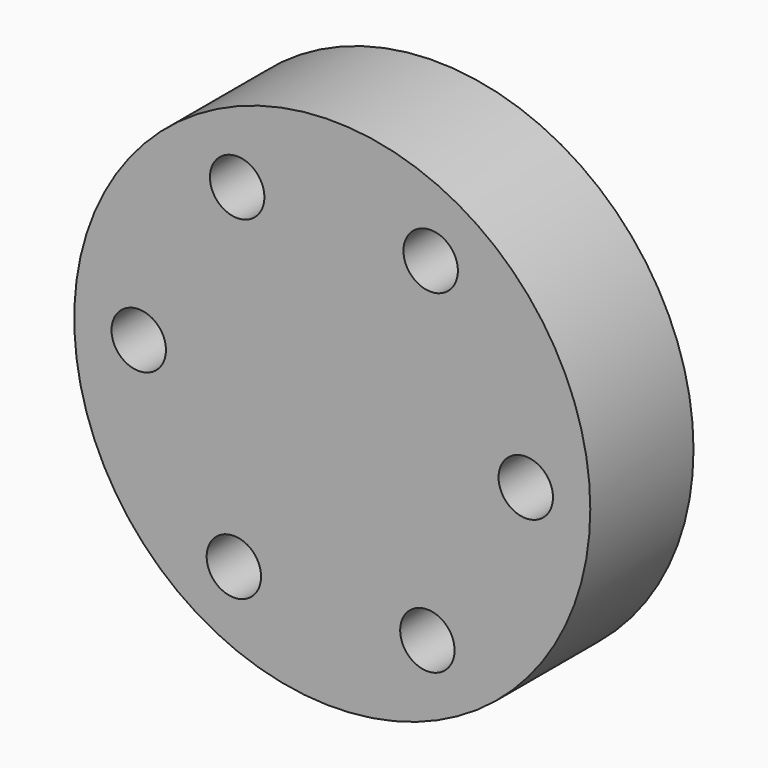
from build123d import *

# Parameters (mm, degrees)
F0_R     = 50.8
F1_DEPTH = 25.4
F3_D     = 10.71626
F3_DEPTH = 22.225
F3_TIP   = 3.2194893086


with BuildPart() as f1:
    # F0 (on Front) → F1 (new body)
    with BuildSketch(Plane.XZ):
        Circle(F0_R)
    extrude(amount=F1_DEPTH)

    # F3
    with Locations(Plane.XZ.offset(25.4)):
        with Locations((-38.0981450941, 0.3759526402), (-18.7234880101, 33.1819378087), (19.3746570841, 32.8059851685), (38.0981450941, -0.3759526402), (18.7234880101, -33.1819378087), (-19.3746570841, -32.8059851685)):
            Hole(F3_D / 2, depth=F3_DEPTH)
            with Locations((0, 0, -(F3_DEPTH + F3_TIP / 2))):  # 118° drill point
                Cone(0, F3_D / 2, F3_TIP, mode=Mode.SUBTRACT)


solid = f1.part
